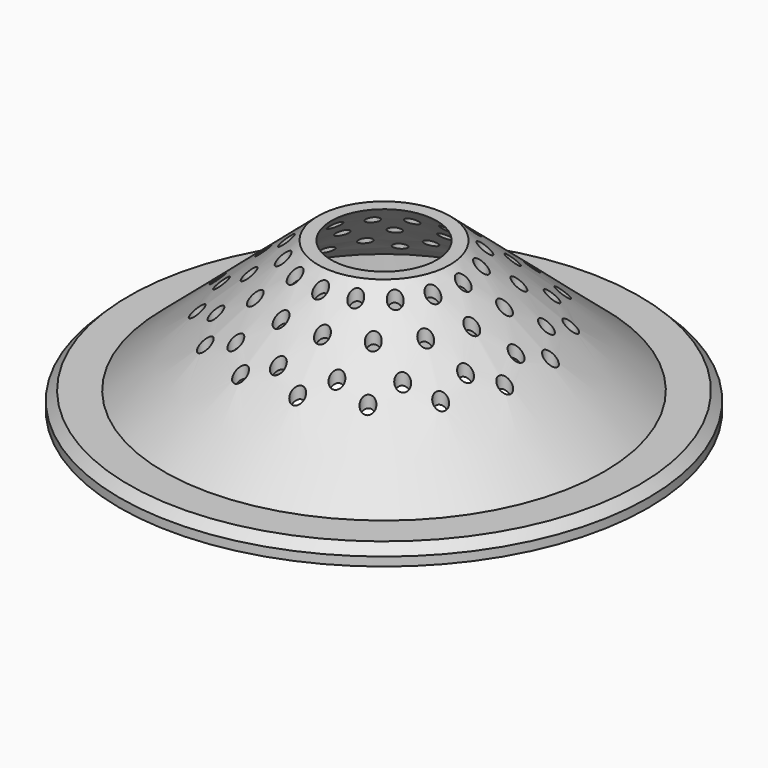
from build123d import *

# Parameters (mm, degrees)
SKETCH_R              = 60
PAD_DEPTH             = 4
SKETCH002_R           = 10
POCKET_DEPTH          = 34.001
SKETCH003_R           = 40
PAD001_DEPTH          = 10
SKETCH004_R           = 38
POCKET001_DEPTH       = 10
SKETCH005_R           = 1.5
POCKET002_DEPTH       = 384.634712
POLARPATTERN_COUNT    = 16
SKETCH006_R           = 1.5
POCKET003_DEPTH       = 384.634712
POLARPATTERN001_COUNT = 16
SKETCH007_R           = 1.5
POCKET004_DEPTH       = 384.634712
POLARPATTERN002_COUNT = 16
SKETCH008_R           = 1.5
POCKET005_DEPTH       = 384.634712
POLARPATTERN003_COUNT = 16
SKETCH010_R           = 38
POCKET006_DEPTH       = 5
CHAMFER_SIZE          = 2
CHAMFER001_SIZE       = 1


with BuildPart() as part:
    # Sketch → Pad (new body)
    with BuildSketch(Plane.XY):
        Circle(SKETCH_R)
    extrude(amount=PAD_DEPTH)

    # Sketch001 → Revolution (revolve)
    with BuildSketch(Plane.XZ):
        Polygon((0, 4), (50, 4), (15, 34), (0, 34), align=None)
    revolve(axis=Axis((0, 0, 0), (0, 0, 1)))

    # Sketch002 → Pocket (cut, through all)
    with BuildSketch(Plane.XY):
        Circle(SKETCH002_R)
    extrude(amount=POCKET_DEPTH, mode=Mode.SUBTRACT)

    # Sketch003 → Pad001 (join)
    with BuildSketch(Plane.XY):
        Circle(SKETCH003_R)
    extrude(amount=-PAD001_DEPTH)

    # Sketch004 → Pocket001 (cut)
    with BuildSketch(Plane.XY):
        Circle(SKETCH004_R)
    extrude(amount=-POCKET001_DEPTH, mode=Mode.SUBTRACT)

    # Sketch005 → Pocket002 (cut, through all)
    with BuildSketch(Plane.XY):
        with Locations((18, 0)):
            Circle(SKETCH005_R)
    pocket002 = extrude(amount=POCKET002_DEPTH, mode=Mode.SUBTRACT)

    # PolarPattern: Pocket002 ×16 about axis
    polarpattern_axis = Axis((0, 0, 0), (0, 0, 1))
    for i in range(1, POLARPATTERN_COUNT):
        add(pocket002.rotate(polarpattern_axis, i * 360 / POLARPATTERN_COUNT), mode=Mode.SUBTRACT)

    # Sketch006 → Pocket003 (cut, through all)
    with BuildSketch(Plane.XY):
        with Locations((23.567862, -4.533859)):
            Circle(SKETCH006_R)
    pocket003 = extrude(amount=POCKET003_DEPTH, mode=Mode.SUBTRACT)

    # PolarPattern001: Pocket003 ×16 about axis
    polarpattern001_axis = Axis((0, 0, 0), (0, 0, 1))
    for i in range(1, POLARPATTERN001_COUNT):
        add(pocket003.rotate(polarpattern001_axis, i * 360 / POLARPATTERN001_COUNT), mode=Mode.SUBTRACT)

    # Sketch007 → Pocket004 (cut, through all)
    with BuildSketch(Plane.XY):
        with Locations((30, 0)):
            Circle(SKETCH007_R)
    pocket004 = extrude(amount=POCKET004_DEPTH, mode=Mode.SUBTRACT)

    # PolarPattern002: Pocket004 ×16 about axis
    polarpattern002_axis = Axis((0, 0, 0), (0, 0, 1))
    for i in range(1, POLARPATTERN002_COUNT):
        add(pocket004.rotate(polarpattern002_axis, i * 360 / POLARPATTERN002_COUNT), mode=Mode.SUBTRACT)

    # Sketch008 → Pocket005 (cut, through all)
    with BuildSketch(Plane.XY):
        with Locations((32.620634, -6.488648)):
            Circle(SKETCH008_R)
    pocket005 = extrude(amount=POCKET005_DEPTH, mode=Mode.SUBTRACT)

    # PolarPattern003: Pocket005 ×16 about axis
    polarpattern003_axis = Axis((0, 0, 0), (0, 0, 1))
    for i in range(1, POLARPATTERN003_COUNT):
        add(pocket005.rotate(polarpattern003_axis, i * 360 / POLARPATTERN003_COUNT), mode=Mode.SUBTRACT)

    # Sketch009 → Groove (revolve, cut)
    with BuildSketch(Plane.XZ):
        Polygon((0, 4), (38, 4), (38, 11.5), (12, 34), (0, 34), align=None)
    revolve(axis=Axis((0, 0, 0), (0, 0, 1)), mode=Mode.SUBTRACT)

    # Sketch010 → Pocket006 (cut)
    with BuildSketch(Plane.XY):
        Circle(SKETCH010_R)
    extrude(amount=POCKET006_DEPTH, mode=Mode.SUBTRACT)

    # Chamfer
    chamfer_edges = [part.edges().sort_by_distance(p)[0] for p in [
        (-60, 0, 4),
    ]]
    chamfer(chamfer_edges, length=CHAMFER_SIZE)

    # Chamfer001
    chamfer001_edges = [part.edges().sort_by_distance(p)[0] for p in [
        (-40, 0, -10),
    ]]
    chamfer(chamfer001_edges, length=CHAMFER001_SIZE)


solid = part.part
